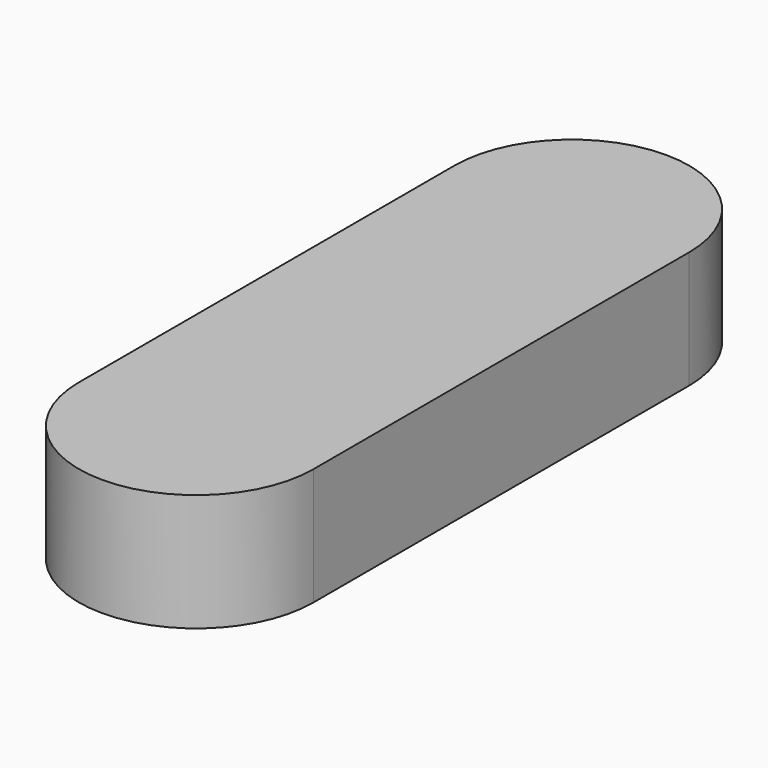
from build123d import *

# Parameters (mm, degrees)
F1_DEPTH = 63.5


with BuildPart() as f1:
    # F0 (on Top) → F1 (new body)
    with BuildSketch(Plane.XY):
        with BuildLine():
            Line((-63.5, 0), (63.5, 0))
            ThreePointArc((63.5, 0), (0, 63.5), (-63.5, 0))
        make_face()
        with BuildLine():
            Line((63.5, -254), (63.5, 0))
            ThreePointArc((63.5, 0), (0, -63.5), (-63.5, 0))
            Line((-63.5, 0), (-63.5, -254))
            ThreePointArc((-63.5, -254), (0, -190.5), (63.5, -254))
        make_face()
        with BuildLine():
            ThreePointArc((-63.5, 0), (0, -63.5), (63.5, 0))
            Line((63.5, 0), (-63.5, 0))
        make_face()
        with BuildLine():
            ThreePointArc((-63.5, -254), (0, -317.5), (63.5, -254))
            Line((63.5, -254), (-63.5, -254))
        make_face()
        with BuildLine():
            Line((-63.5, -254), (63.5, -254))
            ThreePointArc((63.5, -254), (0, -190.5), (-63.5, -254))
        make_face()
    extrude(amount=F1_DEPTH)


solid = f1.part
